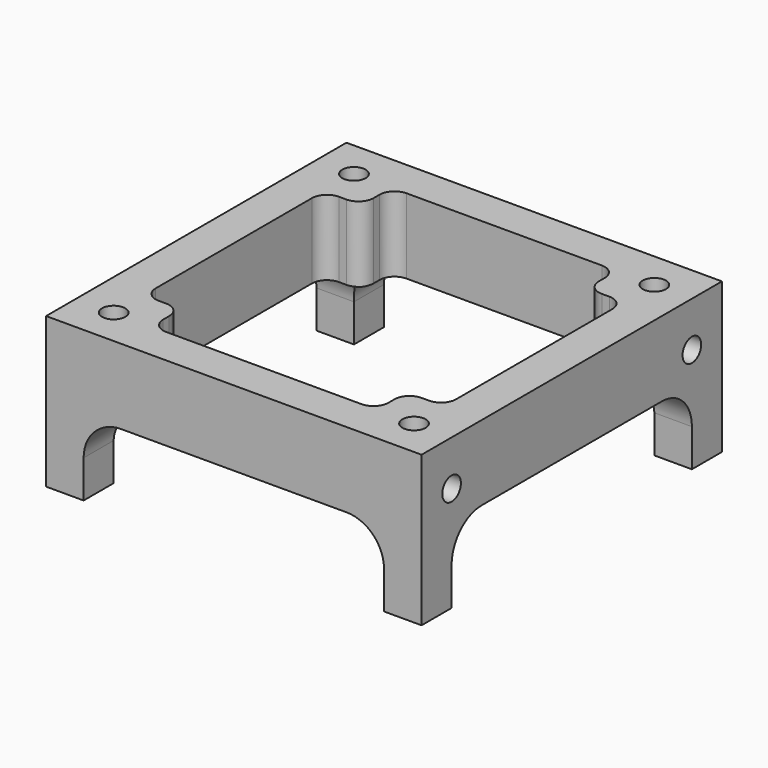
from build123d import *

# Parameters (mm, degrees)
SKETCH087_W             = 50
SKETCH087_H             = 50
PAD015_DEPTH            = 20
POCKET073_DEPTH         = 20.001
POCKET074_DEPTH         = 50.001
POCKET075_DEPTH         = 50.001
SKETCH091_R             = 1.55
POCKET076_DEPTH         = 5
SKETCH092_R             = 1.55
POCKET077_DEPTH         = 3
BODY016_PLACEMENT_ANGLE = 90


with BuildPart() as part:
    # Sketch087 → Pad015 (new body)
    with BuildSketch(Plane.XY):
        Rectangle(SKETCH087_W, SKETCH087_H)
    extrude(amount=PAD015_DEPTH)

    # Sketch088 (on Face6 of Pad015) → Pocket073 (cut, through all)
    with BuildSketch(Plane.XY.offset(20)):
        with BuildLine():
            Line((-18, 15), (-17, 15))
            ThreePointArc((-17, 15), (-15.585786, 15.585786), (-15, 17))
            Line((-15, 17), (-15, 18))
            ThreePointArc((-13, 20), (-14.414214, 19.414214), (-15, 18))
            Line((-13, 20), (13, 20))
            ThreePointArc((15, 18), (14.414214, 19.414214), (13, 20))
            Line((15, 18), (15, 17))
            ThreePointArc((15, 17), (15.585786, 15.585786), (17, 15))
            Line((17, 15), (18, 15))
            ThreePointArc((20, 13), (19.414214, 14.414214), (18, 15))
            Line((20, 13), (20, -13))
            ThreePointArc((18, -15), (19.414214, -14.414214), (20, -13))
            Line((18, -15), (17, -15))
            ThreePointArc((17, -15), (15.585786, -15.585786), (15, -17))
            Line((15, -17), (15, -18))
            ThreePointArc((13, -20), (14.414214, -19.414214), (15, -18))
            Line((13, -20), (-13, -20))
            ThreePointArc((-15, -18), (-14.414214, -19.414214), (-13, -20))
            Line((-15, -18), (-15, -17))
            ThreePointArc((-15, -17), (-15.585786, -15.585786), (-17, -15))
            Line((-17, -15), (-18, -15))
            ThreePointArc((-20, -13), (-19.414214, -14.414214), (-18, -15))
            Line((-20, -13), (-20, 13))
            ThreePointArc((-18, 15), (-19.414214, 14.414214), (-20, 13))
        make_face()
    extrude(amount=-POCKET073_DEPTH, mode=Mode.SUBTRACT)

    # Sketch089 (on Face3 of Pocket073) → Pocket074 (cut, through all)
    with BuildSketch(Plane.YZ.offset(25)):
        with BuildLine():
            Line((-15, 10), (15, 10))
            ThreePointArc((20, 5), (18.535534, 8.535534), (15, 10))
            Line((20, 5), (20, 0))
            Line((20, 0), (-20, 0))
            Line((-20, 0), (-20, 5))
            ThreePointArc((-15, 10), (-18.535534, 8.535534), (-20, 5))
        make_face()
    extrude(amount=-POCKET074_DEPTH, mode=Mode.SUBTRACT)

    # Sketch090 (on Face6 of Pocket073) → Pocket075 (cut, through all)
    with BuildSketch(Plane.XZ.offset(25)):
        with BuildLine():
            Line((-15, 10), (15, 10))
            ThreePointArc((20, 5), (18.535534, 8.535534), (15, 10))
            Line((20, 5), (20, 0))
            Line((20, 0), (-20, 0))
            Line((-20, 0), (-20, 5))
            ThreePointArc((-15, 10), (-18.535534, 8.535534), (-20, 5))
        make_face()
    extrude(amount=-POCKET075_DEPTH, mode=Mode.SUBTRACT)

    # Sketch091 → Pocket076 (cut)
    with BuildSketch(Plane.XY.offset(20)):
        with Locations((-20, 20)):
            Circle(SKETCH091_R)
        with Locations((20, 20)):
            Circle(SKETCH091_R)
        with Locations((20, -20)):
            Circle(SKETCH091_R)
        with Locations((-20, -20)):
            Circle(SKETCH091_R)
    extrude(amount=-POCKET076_DEPTH, mode=Mode.SUBTRACT)

    # Sketch092 (on Face27 of Pocket076) → Pocket077 (cut)
    with BuildSketch(Plane.XZ.offset(25)):
        with Locations((-20, 14)):
            Circle(SKETCH092_R)
        with Locations((20, 14)):
            Circle(SKETCH092_R)
    extrude(amount=-POCKET077_DEPTH, mode=Mode.SUBTRACT)


with BuildPart() as part_1:
    # Body016 placement: moved
    add(part.part.moved(Location((145, 85, 0))).rotate(Axis((145, 85, 0), (0, 0, 1)), BODY016_PLACEMENT_ANGLE))


solid = part_1.part
